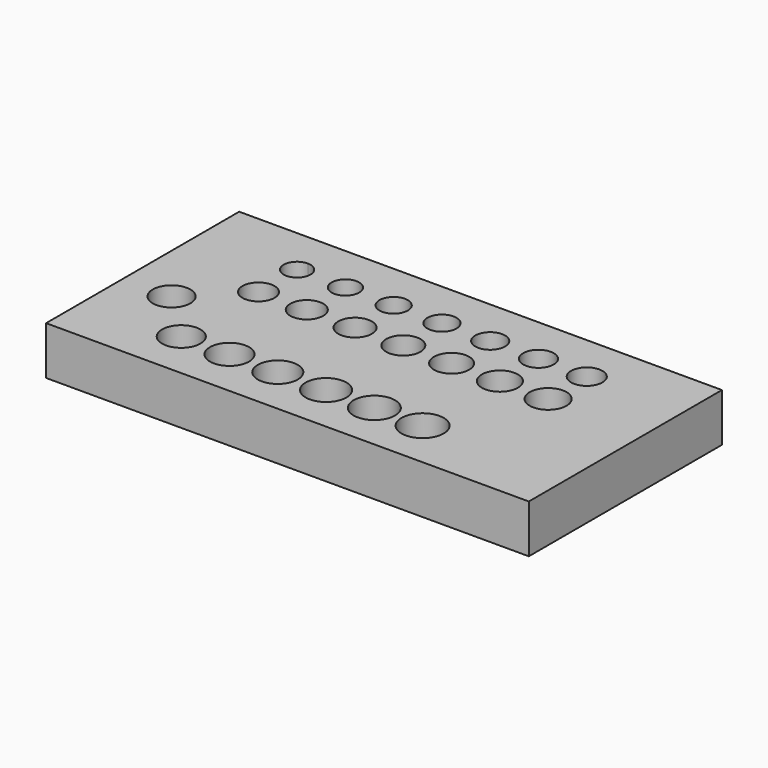
from build123d import *

# Parameters (mm, degrees)
F0_R     = 10.0965
F0_R_2   = 10.2997
F0_R_3   = 10.5
F0_R_4   = 10.7
F0_W     = 9.1194342613
F0_H     = 4.9047619104
F0_R_5   = 9.9
F0_R_6   = 10.9
F0_R_7   = 11.1
F0_R_8   = 23.6739373033
F0_R_9   = 8.45
F0_R_10  = 8.65
F0_R_11  = 8.85
F0_R_12  = 9.05
F0_R_13  = 7.25
F0_R_14  = 7.45
F0_R_15  = 7.65
F0_R_16  = 9.25
F0_R_17  = 9.5
F0_R_18  = 9.7
F0_R_19  = 7.85
F0_R_20  = 8.05
F0_R_21  = 8.25
F0_W_2   = 4.5597171307
F1_DEPTH = 25.4


with BuildPart() as f1:
    # F0 (on Top) → F1 (new body)
    with BuildSketch(Plane.XY):
        Polygon((127, 63.5), (-127, 63.5), (-127, -63.5), (127, -63.5), (127, 23.2268305156), (122.4402828693, 23.2268305156), (122.4402828693, 28.1315924261), (127, 28.1315924261), (127, 47.6108305156), (122.4402828693, 47.6108305156), (122.4402828693, 52.5155924261), (127, 52.5155924261), align=None)
        with Locations((-76.2, -38.1)):
            Circle(F0_R, mode=Mode.SUBTRACT)
        with Locations((-50.8, -38.1)):
            Circle(F0_R_2, mode=Mode.SUBTRACT)
        with Locations((-25.4, -38.1)):
            Circle(F0_R_3, mode=Mode.SUBTRACT)
        with Locations((0, -38.1)):
            Circle(F0_R_4, mode=Mode.SUBTRACT)
        with Locations((-76.2, -21.8187885292)):
            Rectangle(F0_W, F0_H, mode=Mode.SUBTRACT)
        with Locations((-101.6, -12.7)):
            Circle(F0_R_5, mode=Mode.SUBTRACT)
        with Locations((-50.8, -21.8187885292)):
            Rectangle(F0_W, F0_H, mode=Mode.SUBTRACT)
        with Locations((-25.4, -21.8187885292)):
            Rectangle(F0_W, F0_H, mode=Mode.SUBTRACT)
        with Locations((0, -21.8187885292)):
            Rectangle(F0_W, F0_H, mode=Mode.SUBTRACT)
        with Locations((25.4, -38.1)):
            Circle(F0_R_6, mode=Mode.SUBTRACT)
        with Locations((50.8, -38.1)):
            Circle(F0_R_7, mode=Mode.SUBTRACT)
        with Locations((101.6, -38.1)):
            Circle(F0_R_8, mode=Mode.SUBTRACT)
        with Locations((25.4, -21.8187885292)):
            Rectangle(F0_W, F0_H, mode=Mode.SUBTRACT)
        with Locations((50.8, -21.8187885292)):
            Rectangle(F0_W, F0_H, mode=Mode.SUBTRACT)
        with Locations((-76.2, 12.7)):
            Circle(F0_R_9, mode=Mode.SUBTRACT)
        with Locations((-76.2, 25.6792114708)):
            Rectangle(F0_W, F0_H, mode=Mode.SUBTRACT)
        with Locations((-50.8, 12.7)):
            Circle(F0_R_10, mode=Mode.SUBTRACT)
        with Locations((-25.4, 12.7)):
            Circle(F0_R_11, mode=Mode.SUBTRACT)
        with Locations((0, 12.7)):
            Circle(F0_R_12, mode=Mode.SUBTRACT)
        with Locations((-50.8, 25.6792114708)):
            Rectangle(F0_W, F0_H, mode=Mode.SUBTRACT)
        with Locations((-25.4, 25.6792114708)):
            Rectangle(F0_W, F0_H, mode=Mode.SUBTRACT)
        with Locations((0, 25.6792114708)):
            Rectangle(F0_W, F0_H, mode=Mode.SUBTRACT)
        with BuildLine():
            ThreePointArc((-76.2, 45.15), (-71.2148971926, 43.0851028074), (-69.15, 38.1))
            ThreePointArc((-69.15, 38.1), (-81.1851028074, 33.1148971926), (-76.2, 45.15))
        make_face(mode=Mode.SUBTRACT)
        with Locations((-50.8, 38.1)):
            Circle(F0_R_13, mode=Mode.SUBTRACT)
        with Locations((-25.4, 38.1)):
            Circle(F0_R_14, mode=Mode.SUBTRACT)
        with Locations((0, 38.1)):
            Circle(F0_R_15, mode=Mode.SUBTRACT)
        with Locations((-50.8, 50.0632114708)):
            Rectangle(F0_W, F0_H, mode=Mode.SUBTRACT)
        with Locations((-25.4, 50.0632114708)):
            Rectangle(F0_W, F0_H, mode=Mode.SUBTRACT)
        with Locations((0, 50.0632114708)):
            Rectangle(F0_W, F0_H, mode=Mode.SUBTRACT)
        with Locations((25.4, 12.7)):
            Circle(F0_R_16, mode=Mode.SUBTRACT)
        with Locations((50.8, 12.7)):
            Circle(F0_R_17, mode=Mode.SUBTRACT)
        with Locations((25.4, 25.6792114708)):
            Rectangle(F0_W, F0_H, mode=Mode.SUBTRACT)
        with Locations((50.8, 25.6792114708)):
            Rectangle(F0_W, F0_H, mode=Mode.SUBTRACT)
        with Locations((76.2, 12.7)):
            Circle(F0_R_18, mode=Mode.SUBTRACT)
        with Locations((76.2, 25.6792114708)):
            Rectangle(F0_W, F0_H, mode=Mode.SUBTRACT)
        with Locations((101.6, 25.6792114708)):
            Rectangle(F0_W, F0_H, mode=Mode.SUBTRACT)
        with Locations((25.4, 38.1)):
            Circle(F0_R_19, mode=Mode.SUBTRACT)
        with Locations((50.8, 38.1)):
            Circle(F0_R_20, mode=Mode.SUBTRACT)
        with Locations((25.4, 50.0632114708)):
            Rectangle(F0_W, F0_H, mode=Mode.SUBTRACT)
        with Locations((50.8, 50.0632114708)):
            Rectangle(F0_W, F0_H, mode=Mode.SUBTRACT)
        with Locations((76.2, 38.1)):
            Circle(F0_R_21, mode=Mode.SUBTRACT)
        with Locations((76.2, 50.0632114708)):
            Rectangle(F0_W, F0_H, mode=Mode.SUBTRACT)
        with Locations((101.6, 50.0632114708)):
            Rectangle(F0_W, F0_H, mode=Mode.SUBTRACT)
        with Locations((101.6, -38.1)):
            Circle(F0_R_8)
        with Locations((-50.8, 50.0632114708)):
            Rectangle(F0_W, F0_H)
        with Locations((-25.4, 50.0632114708)):
            Rectangle(F0_W, F0_H)
        with Locations((0, 50.0632114708)):
            Rectangle(F0_W, F0_H)
        with Locations((25.4, 50.0632114708)):
            Rectangle(F0_W, F0_H)
        with Locations((-76.2, 25.6792114708)):
            Rectangle(F0_W, F0_H)
        with Locations((-50.8, 25.6792114708)):
            Rectangle(F0_W, F0_H)
        with Locations((-25.4, 25.6792114708)):
            Rectangle(F0_W, F0_H)
        with Locations((0, 25.6792114708)):
            Rectangle(F0_W, F0_H)
        with Locations((25.4, 25.6792114708)):
            Rectangle(F0_W, F0_H)
        with Locations((50.8, 25.6792114708)):
            Rectangle(F0_W, F0_H)
        with Locations((50.8, 50.0632114708)):
            Rectangle(F0_W, F0_H)
        with Locations((76.2, 50.0632114708)):
            Rectangle(F0_W, F0_H)
        with Locations((101.6, 50.0632114708)):
            Rectangle(F0_W, F0_H)
        with Locations((76.2, 25.6792114708)):
            Rectangle(F0_W, F0_H)
        with Locations((-76.2, -21.8187885292)):
            Rectangle(F0_W, F0_H)
        with Locations((-50.8, -21.8187885292)):
            Rectangle(F0_W, F0_H)
        with Locations((-25.4, -21.8187885292)):
            Rectangle(F0_W, F0_H)
        with Locations((0, -21.8187885292)):
            Rectangle(F0_W, F0_H)
        with Locations((50.8, -21.8187885292)):
            Rectangle(F0_W, F0_H)
        with Locations((25.4, -21.8187885292)):
            Rectangle(F0_W, F0_H)
        with Locations((101.6, 25.6792114708)):
            Rectangle(F0_W, F0_H)
        with Locations((124.7201414347, 50.0632114708)):
            Rectangle(F0_W_2, F0_H)
        with Locations((124.7201414347, 25.6792114708)):
            Rectangle(F0_W_2, F0_H)
    extrude(amount=F1_DEPTH)


solid = f1.part
